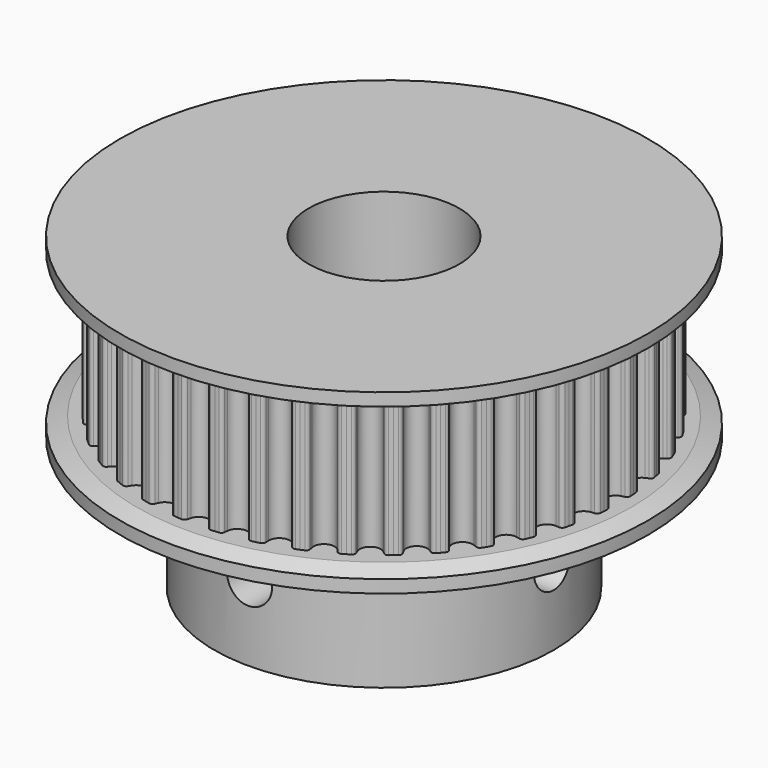
from build123d import *

# Parameters (mm, degrees)
F4_DEPTH  = 3.7
F5_COUNT  = 40
F6_W      = 9
F6_H      = 7
F9_D      = 8
F12_D     = 2.4
F12_DEPTH = 14.001
F13_D     = 2.4
F13_DEPTH = 14.001


with BuildPart() as f4:
    # F3 (on Top) → F4 (new body, symmetric)
    with BuildSketch(Plane.XY):
        with BuildLine():
            Line((0.9201993011, 11.6922407183), (0.9790436229, 12.4399287186))
            ThreePointArc((0.9790436229, 12.4399287186), (0.8763792199, 12.4475825928), (0.7736551653, 12.4543892113))
            ThreePointArc((0.7736551653, 12.4543892113), (0.6502855924, 12.4178134778), (0.5795453421, 12.3103255587))
            ThreePointArc((0.5795453421, 12.3103255587), (0.5581698728, 12.2232687003), (0.5352371, 12.1366090488))
            ThreePointArc((0.5352371, 12.1366090488), (0.3365698656, 11.842095407), (0, 11.7283954474))
            ThreePointArc((0, 11.7283954474), (-0.3365698656, 11.842095407), (-0.5352371, 12.1366090488))
            ThreePointArc((-0.5352371, 12.1366090488), (-0.5581698728, 12.2232687003), (-0.5795453421, 12.3103255587))
            ThreePointArc((-0.5795453421, 12.3103255587), (-0.6502855924, 12.4178134778), (-0.7736551653, 12.4543892113))
            ThreePointArc((-0.7736551653, 12.4543892113), (-0.8763792199, 12.4475825928), (-0.9790436229, 12.4399287186))
            Line((-0.9790436229, 12.4399287186), (-0.9201993011, 11.6922407183))
            Line((-0.9201993011, 11.6922407183), (0, 0))
            Line((0, 0), (0.9201993011, 11.6922407183))
        make_face()
        with BuildLine():
            Line((0.9201993011, 11.6922407183), (0.9790436229, 12.4399287186))
            ThreePointArc((0.9790436229, 12.4399287186), (0.8763792199, 12.4475825928), (0.7736551653, 12.4543892113))
            ThreePointArc((0.7736551653, 12.4543892113), (0.6502855924, 12.4178134778), (0.5795453421, 12.3103255587))
            ThreePointArc((0.5795453421, 12.3103255587), (0.5581698728, 12.2232687003), (0.5352371, 12.1366090488))
            ThreePointArc((0.5352371, 12.1366090488), (0.3365698656, 11.842095407), (0, 11.7283954474))
            ThreePointArc((0, 11.7283954474), (-0.3365698656, 11.842095407), (-0.5352371, 12.1366090488))
            ThreePointArc((-0.5352371, 12.1366090488), (-0.5581698728, 12.2232687003), (-0.5795453421, 12.3103255587))
            ThreePointArc((-0.5795453421, 12.3103255587), (-0.6502855924, 12.4178134778), (-0.7736551653, 12.4543892113))
            ThreePointArc((-0.7736551653, 12.4543892113), (-0.8763792199, 12.4475825928), (-0.9790436229, 12.4399287186))
            Line((-0.9790436229, 12.4399287186), (-0.9201993011, 11.6922407183))
            Line((-0.9201993011, 11.6922407183), (0, 0))
            Line((0, 0), (0.9201993011, 11.6922407183))
        make_face()
        with BuildLine():
            Line((0.9201993011, 11.6922407183), (0.9790436229, 12.4399287186))
            ThreePointArc((0.9790436229, 12.4399287186), (0.8763792199, 12.4475825928), (0.7736551653, 12.4543892113))
            ThreePointArc((0.7736551653, 12.4543892113), (0.6502855924, 12.4178134778), (0.5795453421, 12.3103255587))
            ThreePointArc((0.5795453421, 12.3103255587), (0.5581698728, 12.2232687003), (0.5352371, 12.1366090488))
            ThreePointArc((0.5352371, 12.1366090488), (0.3365698656, 11.842095407), (0, 11.7283954474))
            ThreePointArc((0, 11.7283954474), (-0.3365698656, 11.842095407), (-0.5352371, 12.1366090488))
            ThreePointArc((-0.5352371, 12.1366090488), (-0.5581698728, 12.2232687003), (-0.5795453421, 12.3103255587))
            ThreePointArc((-0.5795453421, 12.3103255587), (-0.6502855924, 12.4178134778), (-0.7736551653, 12.4543892113))
            ThreePointArc((-0.7736551653, 12.4543892113), (-0.8763792199, 12.4475825928), (-0.9790436229, 12.4399287186))
            Line((-0.9790436229, 12.4399287186), (-0.9201993011, 11.6922407183))
            Line((-0.9201993011, 11.6922407183), (0, 0))
            Line((0, 0), (0.9201993011, 11.6922407183))
        make_face()
    extrude(amount=F4_DEPTH, both=True)

    # F5: F4 ×40 about axis
    f5_axis = Axis((0, 0, 0), (0, 0, -1))


with BuildPart() as f4_1:
    add(f4.part)
    for i in range(1, F5_COUNT):
        add(f4.part.rotate(f5_axis, i * 360 / F5_COUNT))

    # F6 (on Front) → F7 (revolve)
    with BuildSketch(Plane.XZ):
        Polygon((0, 4.7), (0, 3.7), (13.1083954474, 3.7), (14, 4.0245175179), (14, 4.7), align=None)
        Polygon((13.1083954474, -3.7), (0, -3.7), (0, -4.7), (9, -4.7), (14, -4.7), (14, -4.0245175179), align=None)
        with Locations((4.5, -8.2)):
            Rectangle(F6_W, F6_H)
    revolve(axis=Axis((0, 0, -8.2), (0, 0, 1)))

    # F9 (through all)
    with Locations(Plane(origin=(0, 0, -11.7), x_dir=(1, 0, 0), z_dir=(0, 0, -1))):
        with Locations((0, 0)):
            Hole(F9_D / 2)

    # F12 (through all, one way)
    with BuildSketch(Plane(origin=(0, 0, 0), x_dir=(1, 0, 0), z_dir=(0, 1, 0))):
        with Locations((0, 7.7)):
            Circle(F12_D / 2)
    extrude(amount=-F12_DEPTH, mode=Mode.SUBTRACT)

    # F13 (through all, one way)
    with BuildSketch(Plane(origin=(0, 0, 0), x_dir=(0, 1, 0), z_dir=(-1, 0, 0))):
        with Locations((0, 7.7)):
            Circle(F13_D / 2)
    extrude(amount=-F13_DEPTH, mode=Mode.SUBTRACT)


solid = f4_1.part
